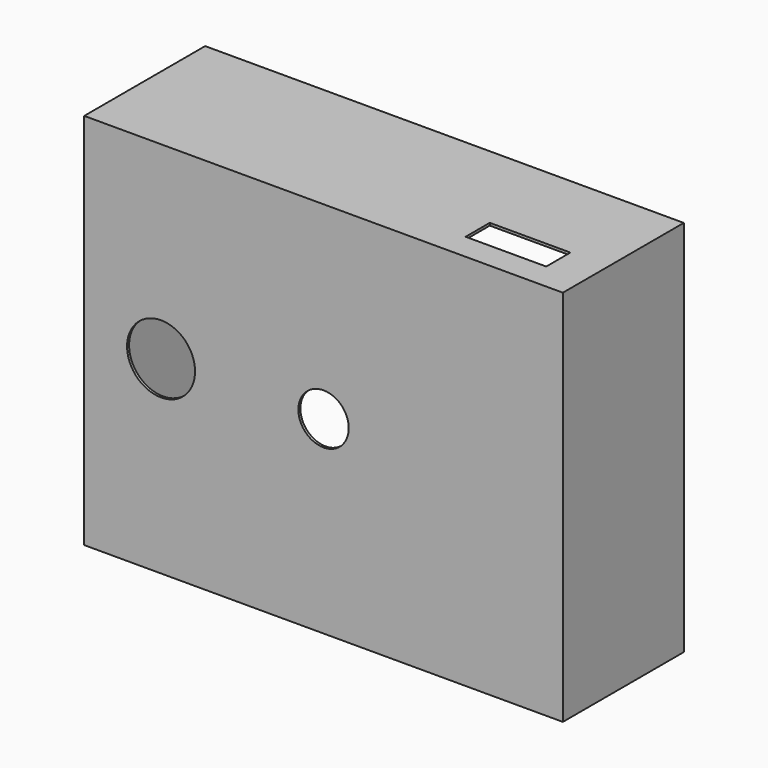
from build123d import *

# Parameters (mm, degrees)
F0_W     = 48.26
F0_H     = 38.1
F1_DEPTH = 15.24
F3_T     = -0.254
F4_D     = 6.858
F6_D     = 5.08
F7_W     = 8.128
F7_H     = 3.048
F8_DEPTH = 25.4


with BuildPart() as f1:
    # F0 (on Front) → F1 (new body)
    with BuildSketch(Plane.XZ):
        Rectangle(F0_W, F0_H)
    extrude(amount=F1_DEPTH)

    # F3
    f3_openings = [f1.faces().sort_by_distance(p)[0] for p in [
        (0, 0, 0),
    ]]
    offset(amount=F3_T, openings=f3_openings)

    # F4 (through all)
    with Locations(Plane.XZ.offset(15.24)):
        with Locations((-16.383, 0)):
            Hole(F4_D / 2)

    # F6 (through all)
    with Locations(Plane.XZ.offset(15.24)):
        with Locations((0, 0)):
            Hole(F6_D / 2)

    # F7 (on face) → F8 (cut)
    with BuildSketch(Plane.XY.offset(19.05)):
        with Locations((16.256, -11.051697)):
            Rectangle(F7_W, F7_H)
    extrude(amount=-F8_DEPTH, mode=Mode.SUBTRACT)


solid = f1.part
